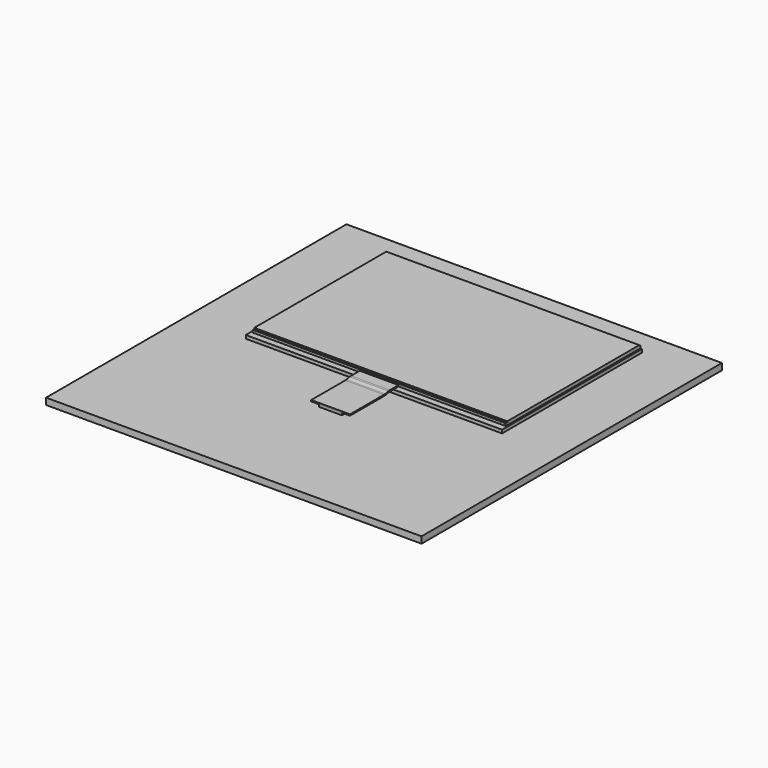
from build123d import *

# Parameters (mm, degrees)
F0_W      = 62.8
F0_H      = 42.82
F1_DEPTH  = 0.81
F2_W      = 62
F2_H      = 41.22
F3_DEPTH  = 0.6
F4_W      = 62
F4_H      = 40.42
F5_DEPTH  = 0.23
F6_W      = 92
F6_H      = 92
F7_DEPTH  = 1.6
F10_W     = 5.6
F10_H     = 3.4
F11_DEPTH = 0.55
F8_W      = 9.5
F8_H      = 0.3


with BuildPart() as f1:
    # F0 (on Top) → F1 (new body)
    with BuildSketch(Plane.XY):
        Rectangle(F0_W, F0_H)
    extrude(amount=F1_DEPTH)

    # F2 (on face) → F3 (join)
    with BuildSketch(Plane.XY.offset(0.81)):
        with Locations((0, 0.8)):
            Rectangle(F2_W, F2_H)
    extrude(amount=F3_DEPTH)

    # F4 (on face) → F5 (join)
    with BuildSketch(Plane.XY.offset(1.41)):
        with Locations((0, 0.9)):
            Rectangle(F4_W, F4_H)
    extrude(amount=F5_DEPTH)

    # F13: sweep along a path in F12
    with BuildLine(Plane.YZ) as f13_path:
        Line((-19.81, 0.96), (-21.41, 0.96))
        Line((-21.41, 0.96), (-22.21, 0.96))
        Line((-22.21, 0.96), (-22.5199155845, 0.96))
        ThreePointArc((-22.5199155845, 0.96), (-22.7091472545, 0.9510277183), (-22.8966810847, 0.9241913751))
        Line((-22.8966810847, 0.9241913751), (-23.8787767723, 0.7358086249))
        ThreePointArc((-23.8787767723, 0.7358086249), (-24.0663106024, 0.7089722817), (-24.2555422725, 0.7))
        Line((-24.2555422725, 0.7), (-24.565457857, 0.7))
        Line((-24.565457857, 0.7), (-34.688, 0.7))
    # F8 (on face) → F13 (sweep)
    with BuildSketch(Plane.XZ.offset(19.81)):
        with Locations((0, 0.96)):
            Rectangle(F8_W, F8_H)
    sweep(path=f13_path.line)


with BuildPart() as f7:
    # F6 (on face) → F7 (new body)
    with BuildSketch(Plane(origin=(0, 0, 0), x_dir=(1, 0, 0), z_dir=(0, 0, -1))):
        with Locations((0, 18.329)):
            Rectangle(F6_W, F6_H)
    extrude(amount=F7_DEPTH)

    # F10 (on face) → F11 (join)
    with BuildSketch(Plane.XY):
        with Locations((0, -32.988)):
            Rectangle(F10_W, F10_H)
    extrude(amount=F11_DEPTH)


solid = Compound([f1.part, f7.part])
